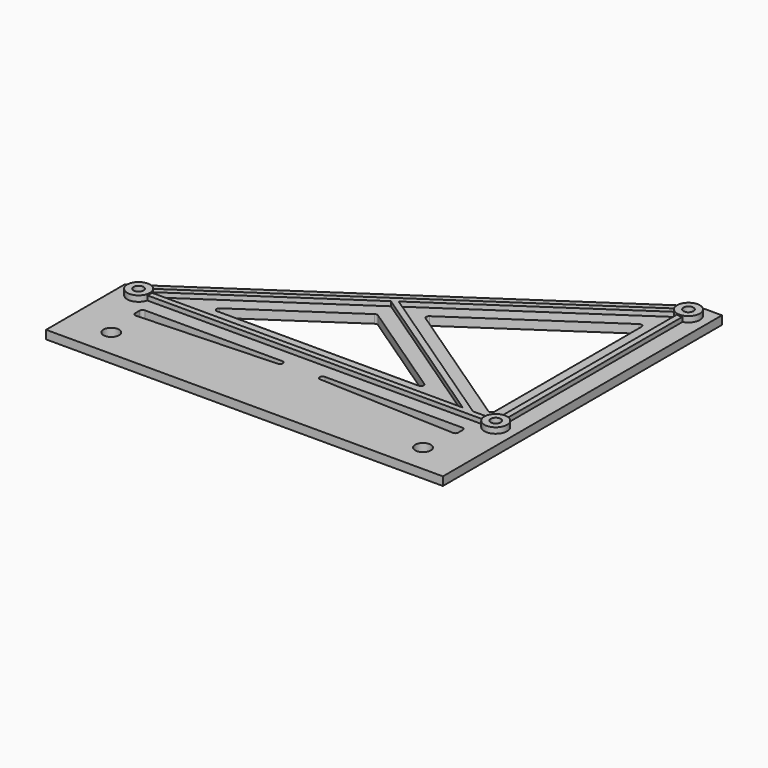
from build123d import *

# Parameters (mm, degrees)
SKETCH_R      = 1.75
SKETCH_R_2    = 2.75
PAD_DEPTH     = 3
SKETCH001_R   = 4
SKETCH001_R_2 = 1.75
PAD001_DEPTH  = 2
PAD002_DEPTH  = 1.6


with BuildPart() as part:
    # Sketch → Pad (new body)
    with BuildSketch(Plane.XY):
        Polygon((-70, 14.565403), (-70, -20), (70, -20), (70, 103.05), (61.165402, 103.05), align=None)
        with Locations((-63, 12.05)):
            Circle(SKETCH_R, mode=Mode.SUBTRACT)
        with Locations((-55, -10)):
            Circle(SKETCH_R_2, mode=Mode.SUBTRACT)
        with Locations((55, -10)):
            Circle(SKETCH_R_2, mode=Mode.SUBTRACT)
        with Locations((63, 12.05)):
            Circle(SKETCH_R, mode=Mode.SUBTRACT)
        with Locations((63, 97.05)):
            Circle(SKETCH_R, mode=Mode.SUBTRACT)
        with BuildLine():
            Line((-56, 6.05), (-7.5, 6.05))
            ThreePointArc((-7.45777, 4.050892), (-6.500223, 5.07112), (-7.5, 6.05))
            Line((-7.45777, 4.050892), (-55.95777, 2.000892))
            ThreePointArc((-57, 3), (-56.692015, 2.278117), (-55.95777, 2.000892))
            Line((-57, 3), (-57, 5.05))
            ThreePointArc((-56, 6.05), (-56.707107, 5.757107), (-57, 5.05))
        make_face(mode=Mode.SUBTRACT)
        with BuildLine():
            Line((56, 6.05), (7.5, 6.05))
            ThreePointArc((7.5, 6.05), (6.500223, 5.07112), (7.45777, 4.050892))
            Line((7.45777, 4.050892), (55.95777, 2.000892))
            ThreePointArc((55.95777, 2.000892), (56.692015, 2.278117), (57, 3))
            Line((57, 3), (57, 5.05))
            ThreePointArc((57, 5.05), (56.707107, 5.757107), (56, 6.05))
        make_face(mode=Mode.SUBTRACT)
        with BuildLine():
            Line((55.440753, 84.712883), (7.387406, 52.295942))
            ThreePointArc((7.387406, 52.295942), (6.946652, 51.466941), (7.387406, 50.63794))
            Line((7.387406, 50.63794), (55.440753, 18.220999))
            ThreePointArc((55.440753, 18.220999), (56.469443, 18.167037), (57, 19.05))
            Line((57, 19.05), (57, 83.883882))
            ThreePointArc((57, 83.883882), (56.469443, 84.766844), (55.440753, 84.712883))
        make_face(mode=Mode.SUBTRACT)
        with BuildLine():
            Line((-40.665942, 19.879001), (-5.129429, 43.852046))
            ThreePointArc((-4.010935, 43.852046), (-4.570182, 44.023045), (-5.129429, 43.852046))
            Line((-4.010935, 43.852046), (31.525578, 19.879001))
            ThreePointArc((30.966331, 18.05), (31.922627, 18.757597), (31.525578, 19.879001))
            Line((30.966331, 18.05), (-40.106695, 18.05))
            ThreePointArc((-40.665942, 19.879001), (-41.06299, 18.757597), (-40.106695, 18.05))
        make_face(mode=Mode.SUBTRACT)
    extrude(amount=PAD_DEPTH)

    # Sketch001 → Pad001 (join)
    with BuildSketch(Plane.XY.offset(3)):
        with Locations((-63, 12.05)):
            Circle(SKETCH001_R)
        with Locations((-63, 12.05)):
            Circle(SKETCH001_R_2, mode=Mode.SUBTRACT)
        with Locations((63, 12.05)):
            Circle(SKETCH001_R)
        with Locations((63, 12.05)):
            Circle(SKETCH001_R_2, mode=Mode.SUBTRACT)
        with Locations((63, 97.05)):
            Circle(SKETCH001_R)
        with Locations((63, 97.05)):
            Circle(SKETCH001_R_2, mode=Mode.SUBTRACT)
    extrude(amount=PAD001_DEPTH)

    # Sketch002 → Pad002 (join)
    with BuildSketch(Plane.XY.offset(3)):
        Polygon((64, 94.536369), (64, 15.524874), (59.525126, 11.05), (-60.864255, 11.05), (-61.788712, 14.07341), (60.35695, 96.473261), align=None)
        Polygon((60.348539, 94.055045), (-2.782063, 51.466941), (54.165402, 13.05), (59.127017, 13.05), (62, 15.922983), (62, 93.177017), align=None, mode=Mode.SUBTRACT)
        Polygon((-4.570182, 50.26067), (-59.230045, 13.386952), (-59.127017, 13.05), (50.589164, 13.05), align=None, mode=Mode.SUBTRACT)
    extrude(amount=PAD002_DEPTH)


solid = part.part
